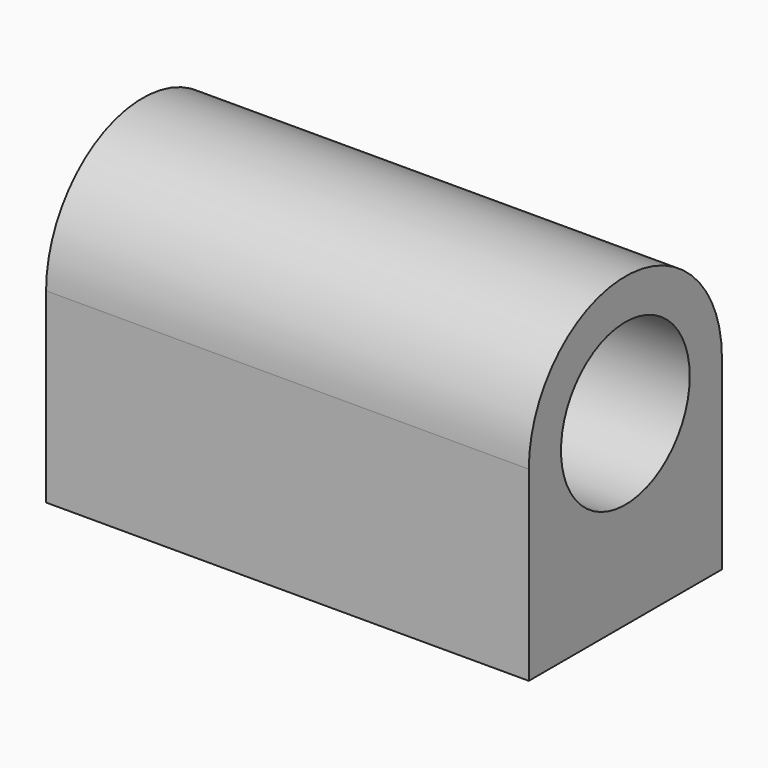
from build123d import *

# Parameters (mm, degrees)
F0_R     = 12.7
F1_DEPTH = 38.1
F2_R     = 1.651
F3_DEPTH = 12.7


with BuildPart() as f1:
    # F0 (on Right) → F1 (new body, symmetric)
    with BuildSketch(Plane.YZ):
        with BuildLine():
            Line((19.05, -29.424714), (19.05, 0))
            ThreePointArc((19.05, 0), (0, 19.05), (-19.05, 0))
            Line((-19.05, 0), (-19.05, -29.424714))
            Line((-19.05, -29.424714), (19.05, -29.424714))
        make_face()
        Circle(F0_R, mode=Mode.SUBTRACT)
    extrude(amount=F1_DEPTH, both=True)

    # F2 (on face) → F3 (cut)
    with BuildSketch(Plane(origin=(0, 0, -29.424714), x_dir=(1, 0, 0), z_dir=(0, 0, -1))):
        with Locations((31.75, 12.7)):
            Circle(F2_R)
        with Locations((-31.75, 12.7)):
            Circle(F2_R)
        with Locations((-31.75, -12.7)):
            Circle(F2_R)
        with Locations((31.75, -12.7)):
            Circle(F2_R)
    extrude(amount=-F3_DEPTH, mode=Mode.SUBTRACT)


solid = f1.part
